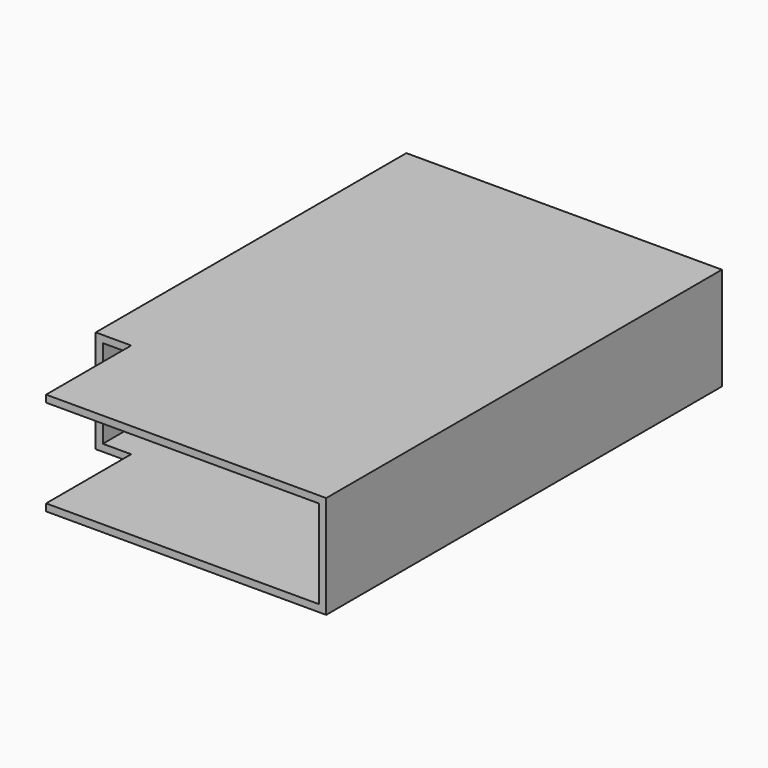
from build123d import *

# Parameters (mm, degrees)
SKETCH004_W             = 35.6
SKETCH004_H             = 11.6
PAD003_DEPTH            = 0.8
SKETCH005_W             = 35.6
SKETCH005_H             = 11.6
SKETCH005_W_2           = 34
SKETCH005_H_2           = 10
PAD004_DEPTH            = 55.8
SKETCH006_W             = 4
SKETCH006_H             = 12
POCKET001_DEPTH         = 5.8
BODY002_PLACEMENT_ANGLE = 90


with BuildPart() as part:
    # Sketch004 → Pad003 (new body)
    with BuildSketch(Plane.XY):
        Rectangle(SKETCH004_W, SKETCH004_H)
    extrude(amount=PAD003_DEPTH)

    # Sketch005 → Pad004 (join)
    with BuildSketch(Plane.XY):
        Rectangle(SKETCH005_W, SKETCH005_H)
        Rectangle(SKETCH005_W_2, SKETCH005_H_2, mode=Mode.SUBTRACT)
    extrude(amount=PAD004_DEPTH)

    # Sketch006 → Pocket001 (cut, symmetric)
    with BuildSketch(Plane.XZ):
        with Locations((-15.8, 49.8)):
            Rectangle(SKETCH006_W, SKETCH006_H)
    extrude(amount=POCKET001_DEPTH, both=True, mode=Mode.SUBTRACT)


with BuildPart() as part_1:
    # Body002 placement: moved
    add(part.part.moved(Location((17.4, 28, 57.1))).rotate(Axis((17.4, 28, 57.1), (1, 0, 0)), BODY002_PLACEMENT_ANGLE))


solid = part_1.part
